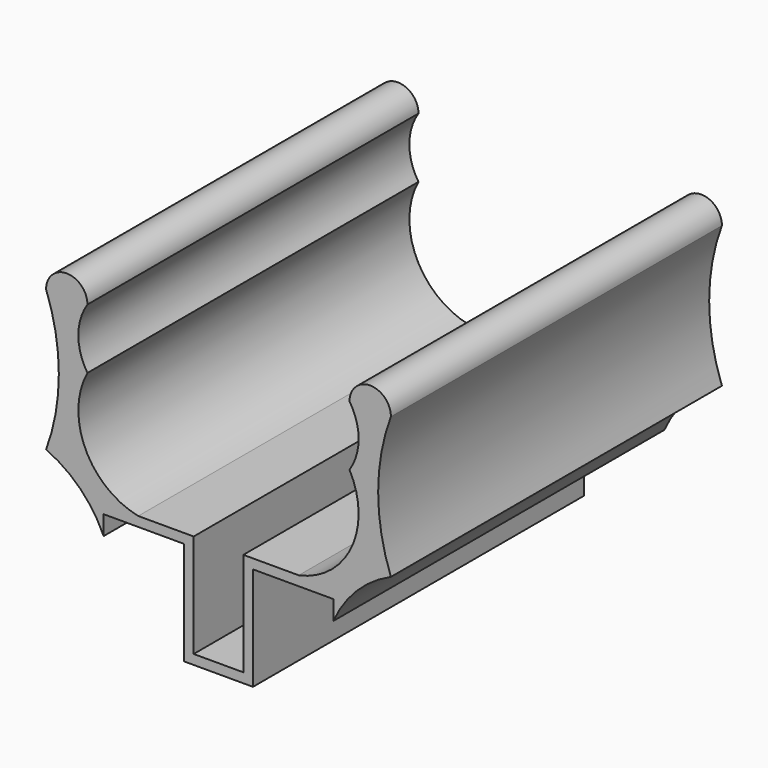
from build123d import *

# Parameters (mm, degrees)
F1_DEPTH = 76.2


with BuildPart() as f1:
    # F0 (on Front) → F1 (new body)
    with BuildSketch(Plane.XZ):
        with BuildLine():
            Line((-6.35, 0), (0, 0))
            Line((0, 0), (6.35, 0))
            Line((6.35, 0), (6.35, 19.05))
            Line((6.35, 19.05), (21.153298, 19.05))
            Line((21.153298, 19.05), (21.153298, 15.494))
            ThreePointArc((21.153298, 15.494), (25.459427, 21.784573), (31.75, 26.090702))
            ThreePointArc((31.75, 26.090702), (29.40245, 39.080351), (31.75, 52.07))
            ThreePointArc((31.75, 52.07), (27.94, 55.88), (24.13, 52.07))
            ThreePointArc((24.13, 52.07), (25.806343, 46.527676), (24.13, 40.985351))
            ThreePointArc((24.13, 40.985351), (24.520495, 28.555752), (14.77733, 20.828))
            Line((14.77733, 20.828), (4.572, 20.828))
            Line((4.572, 20.828), (4.572, 1.778))
            Line((4.572, 1.778), (0, 1.778))
            Line((0, 1.778), (-4.572, 1.778))
            Line((-4.572, 1.778), (-4.572, 20.828))
            Line((-4.572, 20.828), (-14.77733, 20.828))
            ThreePointArc((-14.77733, 20.828), (-24.520495, 28.555752), (-24.13, 40.985351))
            ThreePointArc((-24.13, 40.985351), (-25.806343, 46.527676), (-24.13, 52.07))
            ThreePointArc((-24.13, 52.07), (-27.94, 55.88), (-31.75, 52.07))
            ThreePointArc((-31.75, 52.07), (-29.40245, 39.080351), (-31.75, 26.090702))
            ThreePointArc((-31.75, 26.090702), (-25.459427, 21.784573), (-21.153298, 15.494))
            Line((-21.153298, 15.494), (-21.153298, 19.05))
            Line((-21.153298, 19.05), (-6.35, 19.05))
            Line((-6.35, 19.05), (-6.35, 0))
        make_face()
    extrude(amount=F1_DEPTH)


solid = f1.part
